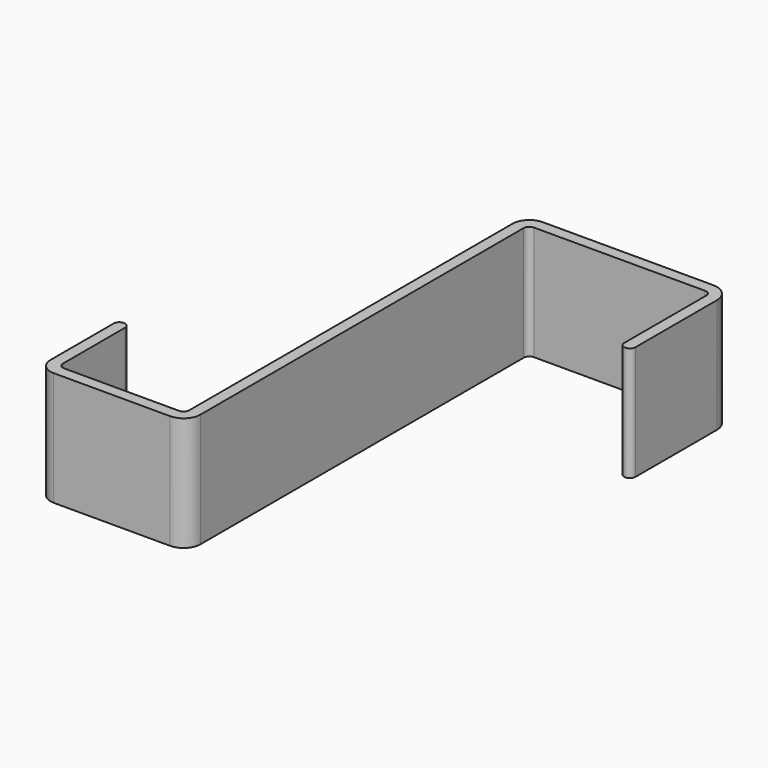
from build123d import *

# Parameters (mm, degrees)
PAD_DEPTH = 30


with BuildPart() as part:
    # Sketch → Pad (new body)
    with BuildSketch(Plane.XY):
        with BuildLine():
            Line((54, 22.909644), (54, 49.60153))
            ThreePointArc((54, 49.60153), (52.594283, 52.995232), (49.200581, 54.400949))
            Line((49.200581, 54.400949), (4.409496, 54.400949))
            ThreePointArc((4.409496, 54.400949), (1.291512, 53.109437), (0, 49.991452))
            Line((0, 49.991452), (0, -56.197297))
            ThreePointArc((-1.5, -57.697297), (-0.43934, -57.257957), (0, -56.197297))
            Line((-1.5, -57.697297), (-31.710882, -57.697297))
            ThreePointArc((-33.210882, -56.197297), (-32.771543, -57.257957), (-31.710882, -57.697297))
            Line((-33.210882, -56.197297), (-33.210882, -35.774231))
            Line((-33.210934, -35.774231), (-33.210882, -35.774231))
            ThreePointArc((-33.210934, -35.774231), (-34.710834, -34.265328), (-36.210882, -35.774084))
            Line((-36.210882, -56.506556), (-36.210882, -35.774084))
            ThreePointArc((-36.210882, -56.506556), (-34.983443, -59.469857), (-32.020141, -60.697297))
            Line((-1.418408, -60.697297), (-32.020141, -60.697297))
            ThreePointArc((-1.418408, -60.697297), (1.705878, -59.403175), (3, -56.278889))
            Line((3, 49.900949), (3, -56.278889))
            ThreePointArc((4.5, 51.400949), (3.43934, 50.961609), (3, 49.900949))
            Line((49.5, 51.400949), (4.5, 51.400949))
            ThreePointArc((51, 49.900949), (50.56066, 50.961609), (49.5, 51.400949))
            Line((51, 22.909644), (51, 49.900949))
            ThreePointArc((51, 22.909644), (52.5, 21.409644), (54, 22.909644))
        make_face()
    extrude(amount=PAD_DEPTH)


solid = part.part
